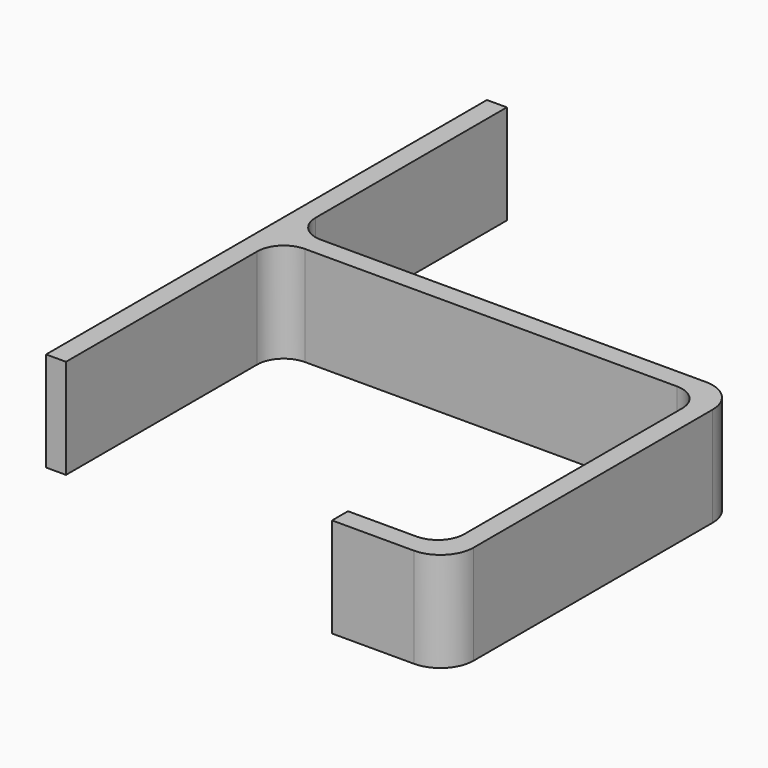
from build123d import *

# Parameters (mm, degrees)
F1_DEPTH = 15


with BuildPart() as f1:
    # F0 (on Top) → F1 (new body)
    with BuildSketch(Plane.XY):
        with BuildLine():
            Line((0, 40), (0, -43))
            Line((0, -43), (3, -43))
            Line((3, -43), (3, -7))
            ThreePointArc((3, -7), (4.171573, -4.171573), (7, -3))
            Line((7, -3), (63, -3))
            ThreePointArc((63, -3), (65.828427, -4.171573), (67, -7))
            Line((67, -7), (67, -48))
            ThreePointArc((67, -48), (65.828427, -50.828427), (63, -52))
            Line((63, -52), (52.673683, -52))
            Line((52.673683, -52), (52.673683, -55))
            Line((52.673683, -55), (65, -55))
            ThreePointArc((65, -55), (68.535534, -53.535534), (70, -50))
            Line((70, -50), (70, -5))
            ThreePointArc((70, -5), (68.535534, -1.464466), (65, 0))
            Line((65, 0), (7, 0))
            ThreePointArc((7, 0), (4.171573, 1.171573), (3, 4))
            Line((3, 4), (3, 40))
            Line((3, 40), (0, 40))
        make_face()
    extrude(amount=F1_DEPTH)


solid = f1.part
